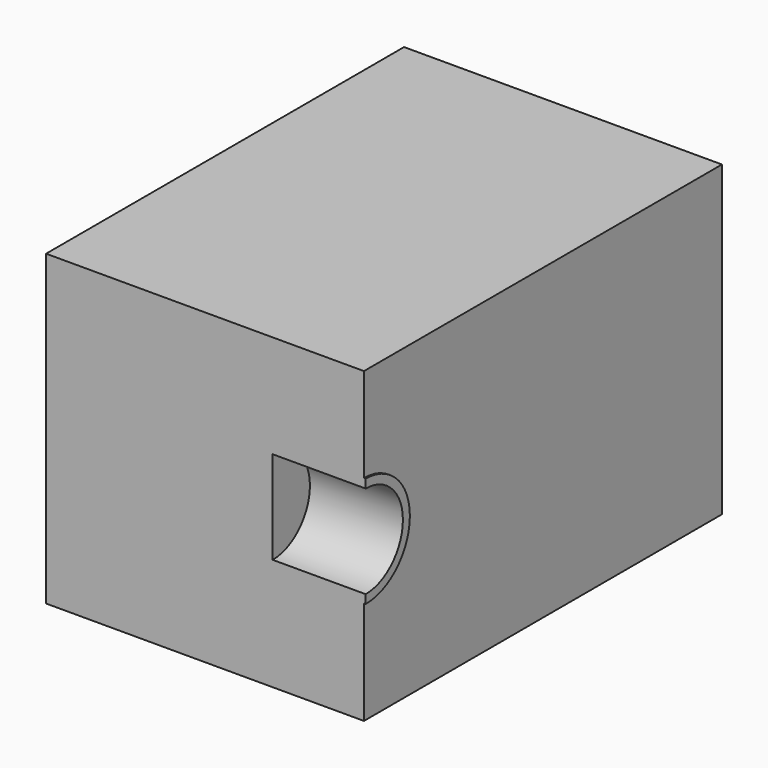
from build123d import *

# Parameters (mm, degrees)
SKETCH_W        = 54.7
SKETCH_H        = 77
PAD_DEPTH       = 53
SKETCH001_W     = 49.98
SKETCH001_H     = 71.98
POCKET_DEPTH    = 52.3
SKETCH002_R     = 5
POCKET001_DEPTH = 5
PAD001_DEPTH    = 18
SKETCH003_R     = 8
POCKET002_DEPTH = 16


with BuildPart() as part:
    # Sketch → Pad (new body)
    with BuildSketch(Plane.XY):
        with Locations((27.35, 38.5)):
            Rectangle(SKETCH_W, SKETCH_H)
    extrude(amount=PAD_DEPTH)

    # Sketch001 → Pocket (cut)
    with BuildSketch(Plane.XY):
        with Locations((27.5, 38.5)):
            Rectangle(SKETCH001_W, SKETCH001_H)
    extrude(amount=POCKET_DEPTH, mode=Mode.SUBTRACT)

    # Sketch002 → Pocket001 (cut)
    with BuildSketch(Plane.YZ):
        with Locations((20, 40)):
            Circle(SKETCH002_R)
    extrude(amount=POCKET001_DEPTH, mode=Mode.SUBTRACT)

    # Sketch004 (on DatumPlane) → Pad001 (join)
    with BuildSketch(Plane.YZ.offset(55)):
        with BuildLine():
            ThreePointArc((0, 17.8), (9.5, 27.3), (0, 36.8))
            Line((0, 36.8), (0, 17.8))
        make_face()
    extrude(amount=-PAD001_DEPTH)

    # Sketch003 (on DatumPlane) → Pocket002 (cut, symmetric)
    with BuildSketch(Plane.YZ.offset(55)):
        with Locations((0, 27.3)):
            Circle(SKETCH003_R)
    extrude(amount=POCKET002_DEPTH, both=True, mode=Mode.SUBTRACT)


solid = part.part
